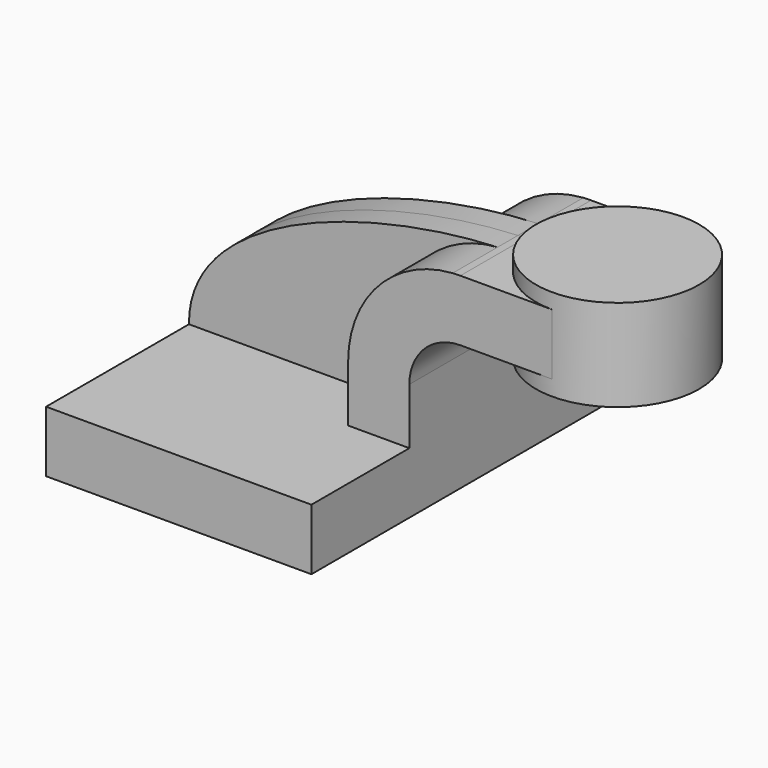
from build123d import *

# Parameters (mm, degrees)
F1_DEPTH = 63.5
F0_W     = 25.4
F0_H     = 19.05
F2_DEPTH = 25.4
F3_DEPTH = 7.9375


with BuildPart() as f1:
    # F0 (on Front) → F1 (new body, symmetric)
    with BuildSketch(Plane.XZ):
        Polygon((41.275, -9.525), (41.275, 9.525), (22.225, 9.525), (-41.275, 9.525), (-41.275, -9.525), align=None)
    extrude(amount=F1_DEPTH, both=True)

    # F0 (on Front) → F2 (join, symmetric)
    with BuildSketch(Plane.XZ):
        with Locations((73.025, 52.4002)):
            Rectangle(F0_W, F0_H)
        with BuildLine():
            Line((22.225, 9.525), (41.275, 9.525))
            Line((41.275, 9.525), (41.275, 27.0002))
            ThreePointArc((41.275, 27.0002), (45.9246798487, 38.2255201513), (57.15, 42.8752))
            Line((57.15, 42.8752), (60.325, 42.8752))
            Line((60.325, 42.8752), (60.325, 61.9252))
            Line((60.325, 61.9252), (57.15, 61.9252))
            add(Edge.make_bspline(
                [(54.7396282089, 61.841924022), (55.5498180251, 61.8762426879), (56.3534740618, 61.9040043012), (57.15, 61.9252)],
                knots=[109.298641458, 109.298641458, 109.298641458, 109.298641458, 111.5045361635, 111.5045361635, 111.5045361635, 111.5045361635], degree=3))
            ThreePointArc((54.7396282089, 61.841924022), (31.6163177371, 50.828475118), (22.225, 27.0002))
            Line((22.225, 27.0002), (22.225, 9.525))
        make_face()
    extrude(amount=F2_DEPTH, both=True)

    # F0 (on Front) → F3 (join, symmetric)
    with BuildSketch(Plane.XZ):
        with BuildLine():
            Line((-41.275, 9.525), (22.225, 9.525))
            Line((22.225, 9.525), (22.225, 27.0002))
            ThreePointArc((22.225, 27.0002), (31.6163177371, 50.828475118), (54.7396282089, 61.841924022))
            add(Edge.make_bspline(
                [(-41.275, 9.525), (-41.5883963276, 42.3431733754), (14.595986714, 60.1414876679), (54.7396282089, 61.841924022)],
                knots=[0, 0, 0, 0, 109.298641458, 109.298641458, 109.298641458, 109.298641458], degree=3))
        make_face()
    extrude(amount=F3_DEPTH, both=True)

    # F0 (on Front) → F4 (revolve)
    with BuildSketch(Plane.XZ):
        Polygon((85.725, 61.9252), (85.725, 42.8752), (85.725, 38.1), (111.125, 38.1), (111.125, 66.675), (85.725, 66.675), align=None)
    revolve(axis=Axis((85.725, 0, 52.3875), (0, 0, 1)))


solid = f1.part
